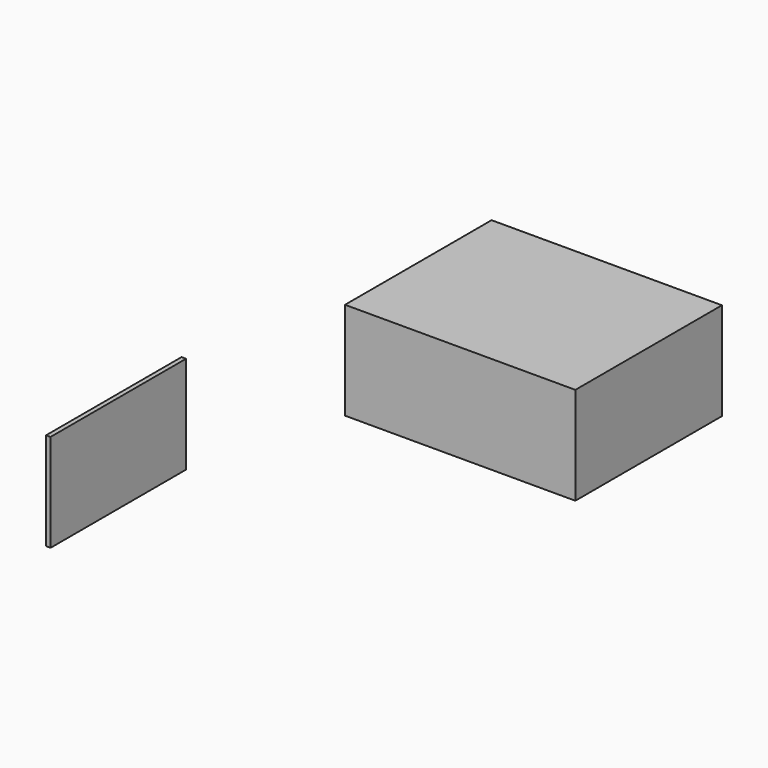
from build123d import *

# Parameters (mm, degrees)
F0_W     = 1.167737
F0_H     = 44.040382
F0_W_2   = 59.922658
F0_H_2   = 47.664143
F1_DEPTH = 25.4


with BuildPart() as f1:
    # F0 (on Top) → F1 (new body)
    with BuildSketch(Plane.XY):
        with Locations((-70.893082, -60.74743)):
            Rectangle(F0_W, F0_H)
        with Locations((-29.961329, 23.832071)):
            Rectangle(F0_W_2, F0_H_2)
    extrude(amount=F1_DEPTH)


solid = f1.part
